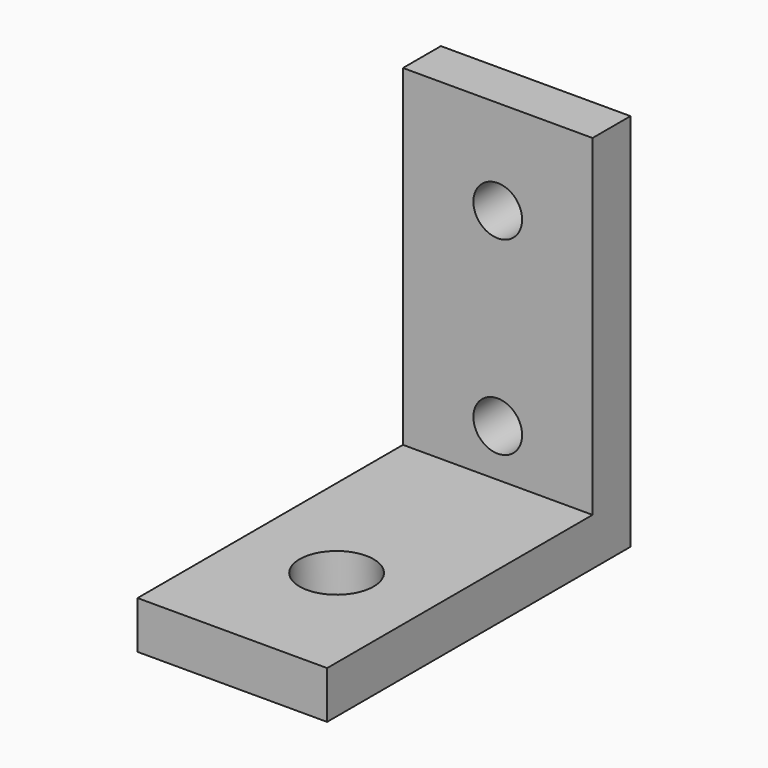
from build123d import *

# Parameters (mm, degrees)
F0_W     = 44.45
F0_H     = 6.35
F0_W_2   = 6.35
F0_H_2   = 44.45
F1_DEPTH = 25.4
F2_R     = 4.960938
F3_DEPTH = 25.4
F5_R     = 3.2639
F6_DEPTH = 25.4


with BuildPart() as f1:
    # F0 (on Right) → F1 (new body)
    with BuildSketch(Plane.YZ):
        with Locations((-28.575, 3.175)):
            Rectangle(F0_W, F0_H)
        with Locations((-3.175, 3.175)):
            Rectangle(F0_W_2, F0_H)
        with Locations((-3.175, 28.575)):
            Rectangle(F0_W_2, F0_H_2)
    extrude(amount=F1_DEPTH)

    # F2 (on face) → F3 (cut)
    with BuildSketch(Plane.XY.offset(6.35)):
        with Locations((12.7, -33.3375)):
            Circle(F2_R)
    extrude(amount=-F3_DEPTH, mode=Mode.SUBTRACT)

    # F5 (on face) → F6 (cut)
    with BuildSketch(Plane.XZ.offset(6.35)):
        with Locations((12.7, 12.7)):
            Circle(F5_R)
        with Locations((12.7, 38.1)):
            Circle(F5_R)
    extrude(amount=-F6_DEPTH, mode=Mode.SUBTRACT)


solid = f1.part
